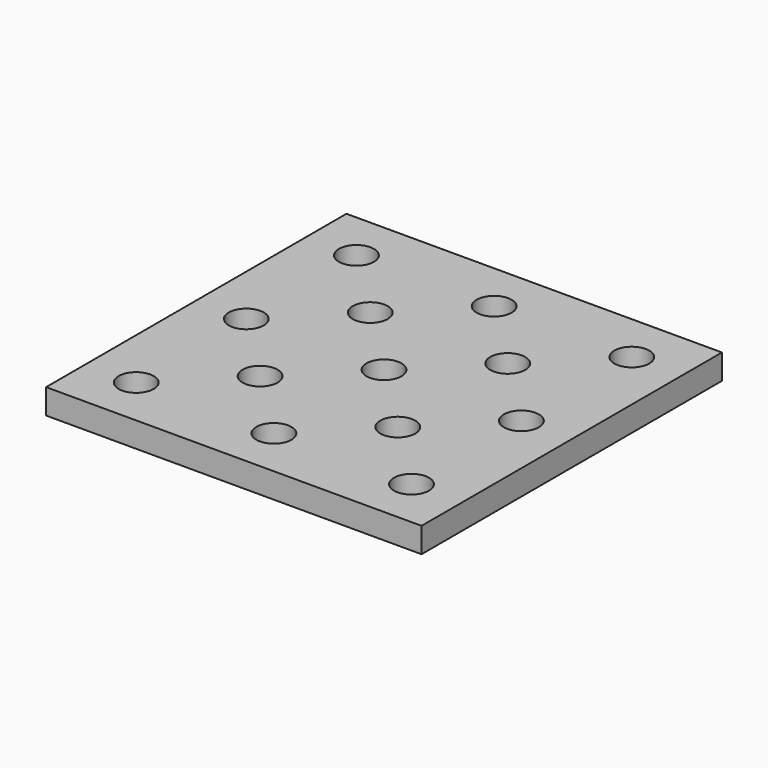
from build123d import *

# Parameters (mm, degrees)
F0_W     = 45
F0_H     = 45
F0_R     = 2.1
F1_DEPTH = 3


with BuildPart() as f1:
    # F0 (on Top) → F1 (new body)
    with BuildSketch(Plane.XY):
        Rectangle(F0_W, F0_H)
        with Locations((-16.5, -16.5)):
            Circle(F0_R, mode=Mode.SUBTRACT)
        with Locations((-8.25, -8.25)):
            Circle(F0_R, mode=Mode.SUBTRACT)
        with Locations((0, -16.5)):
            Circle(F0_R, mode=Mode.SUBTRACT)
        with Locations((16.5, -16.5)):
            Circle(F0_R, mode=Mode.SUBTRACT)
        with Locations((8.261628, -8.261628)):
            Circle(F0_R, mode=Mode.SUBTRACT)
        with Locations((16.5, -0.046448)):
            Circle(F0_R, mode=Mode.SUBTRACT)
        with Locations((-16.5, 0)):
            Circle(F0_R, mode=Mode.SUBTRACT)
        with Locations((-8.25, 8.25)):
            Circle(F0_R, mode=Mode.SUBTRACT)
        with Locations((-16.5, 16.5)):
            Circle(F0_R, mode=Mode.SUBTRACT)
        Circle(F0_R, mode=Mode.SUBTRACT)
        with Locations((8.238404, 8.238404)):
            Circle(F0_R, mode=Mode.SUBTRACT)
        with Locations((0, 16.5)):
            Circle(F0_R, mode=Mode.SUBTRACT)
        with Locations((16.5, 16.5)):
            Circle(F0_R, mode=Mode.SUBTRACT)
    extrude(amount=F1_DEPTH)


solid = f1.part
